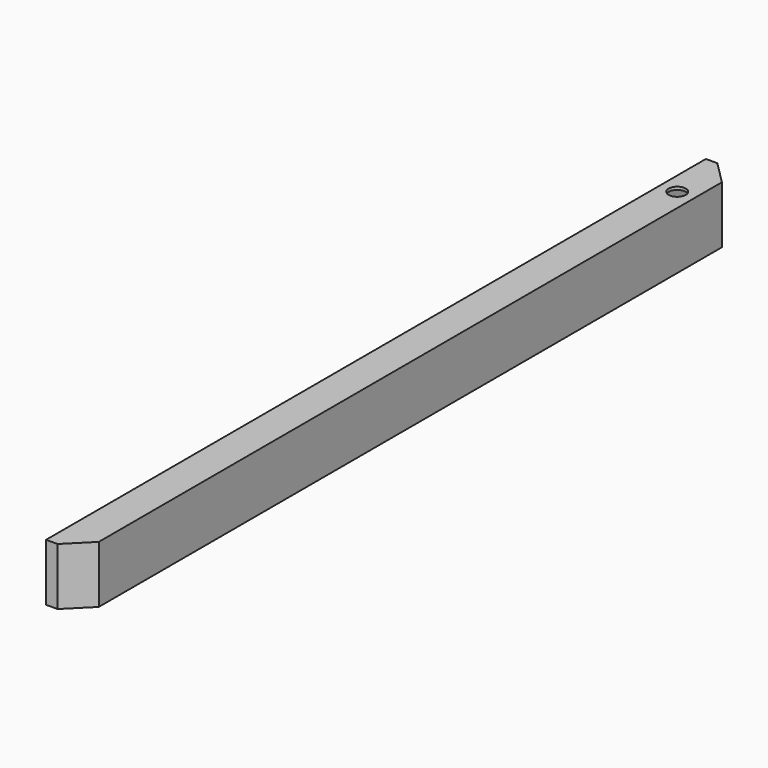
from build123d import *

# Parameters (mm, degrees)
F0_W          = 76.2
F0_H          = 127
F0_W_2        = 63.5
F0_H_2        = 114.3
F1_DEPTH      = 914.4
F2_R          = 19.05
F3_DEPTH      = 127.001
F5_DEPTH      = 63.5
F5_DEPTH_BACK = 63.5
F7_DEPTH      = 63.5
F7_DEPTH_BACK = 63.5
F9_DEPTH      = 63.5
F9_DEPTH_BACK = 63.5


with BuildPart() as f1:
    # F0 (on Front) → F1 (new body, symmetric)
    with BuildSketch(Plane.XZ):
        with Locations((-38.1, 0)):
            Rectangle(F0_W, F0_H)
        with Locations((-38.1, 0)):
            Rectangle(F0_W_2, F0_H_2, mode=Mode.SUBTRACT)
    extrude(amount=F1_DEPTH, both=True)

    # F2 (on face) → F3 (cut, through all)
    with BuildSketch(Plane.XY.offset(63.5)):
        with Locations((-38.1, 787.4)):
            Circle(F2_R)
    extrude(amount=-F3_DEPTH, mode=Mode.SUBTRACT)

    # F4 (on Top) → F5 (cut, two sides)
    with BuildSketch(Plane.XY) as f5_sk:
        Polygon((0, -863.6), (-50.8, -914.4), (0, -914.4), align=None)
        Polygon((0, 863.6), (0, 914.4), (-50.8, 914.4), align=None)
    extrude(amount=F5_DEPTH, mode=Mode.SUBTRACT)
    extrude(f5_sk.sketch, amount=-F5_DEPTH_BACK, mode=Mode.SUBTRACT)

    # F6 (on Top) → F7 (join, two sides)
    with BuildSketch(Plane.XY) as f7_sk:
        Polygon((-76.2, -908.05), (-76.2, -914.4), (-50.8, -914.4), (0, -863.6), (0, -854.619744), (-53.430256, -908.05), align=None)
    extrude(amount=F7_DEPTH)
    extrude(f7_sk.sketch, amount=-F7_DEPTH_BACK)

    # F8 (on Top) → F9 (join, two sides)
    with BuildSketch(Plane.XY) as f9_sk:
        Polygon((-50.8, 914.4), (-76.2, 914.4), (-76.2, 908.05), (-53.430256, 908.05), (0, 854.619744), (0, 863.6), align=None)
    extrude(amount=F9_DEPTH)
    extrude(f9_sk.sketch, amount=-F9_DEPTH_BACK)


solid = f1.part
